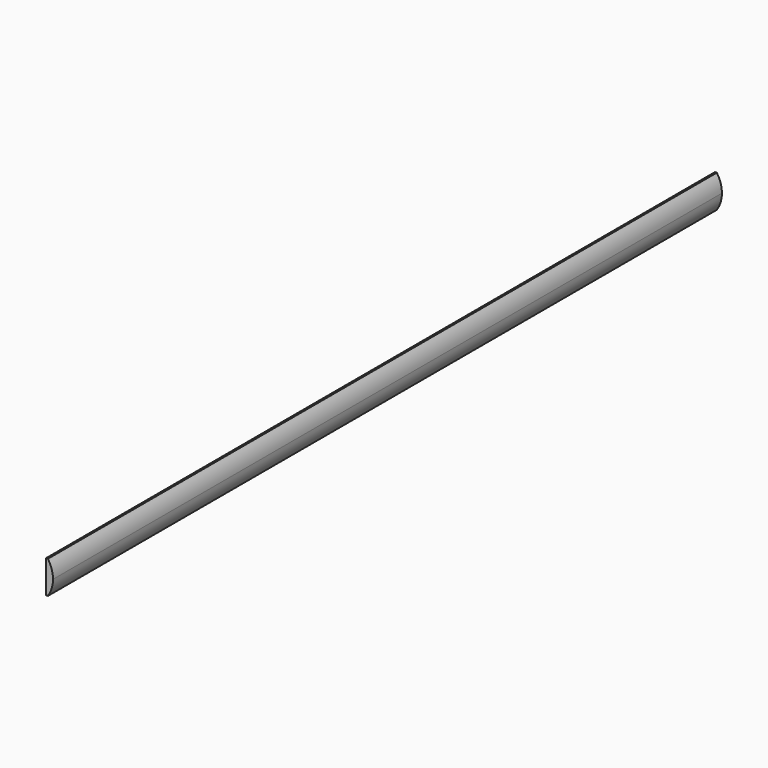
from build123d import *

# Parameters (mm, degrees)
F1_DEPTH = 2300


with BuildPart() as f1:
    # F0 (on Front) → F1 (new body)
    with BuildSketch(Plane.XZ):
        with BuildLine():
            Line((0, 45), (0, 0))
            Line((0, 0), (5, 0))
            ThreePointArc((5, 0), (15.419175, 21.436257), (19, 45))
            Line((19, 45), (0, 45))
        make_face()
        with BuildLine():
            Line((0, 90), (0, 45))
            Line((0, 45), (19, 45))
            ThreePointArc((19, 45), (15.419175, 68.563743), (5, 90))
            Line((5, 90), (0, 90))
        make_face()
    extrude(amount=F1_DEPTH)


solid = f1.part
